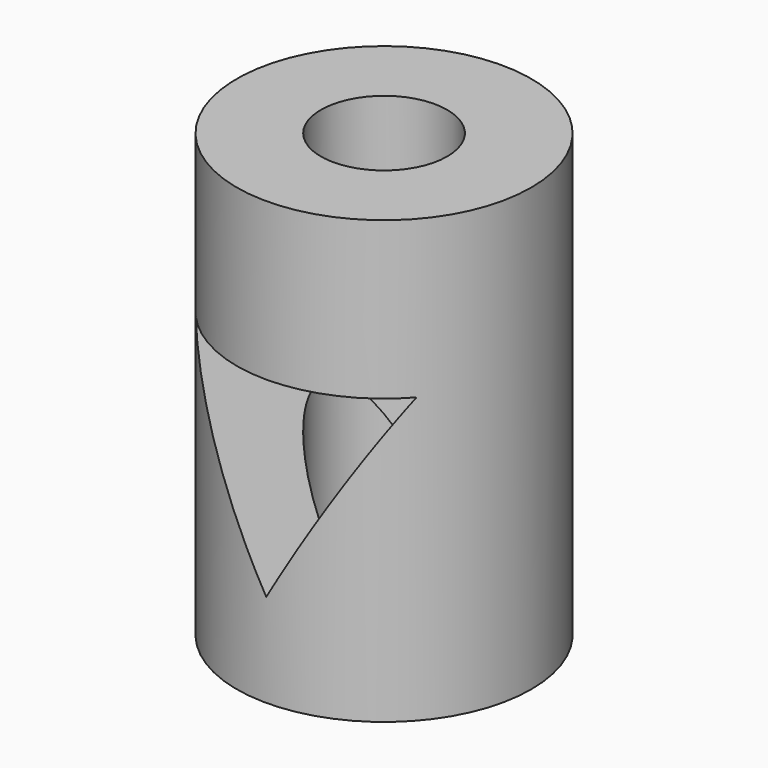
from build123d import *

# Parameters (mm, degrees)
F0_R     = 50
F1_DEPTH = 150
F2_R     = 21.443612
F3_DEPTH = 150.001
F5_DEPTH = 50.001
F6_DEPTH = 50.001


with BuildPart() as f1:
    # F0 (on Top) → F1 (new body)
    with BuildSketch(Plane.XY):
        Circle(F0_R)
    extrude(amount=F1_DEPTH)

    # F2 (on Top) → F3 (cut, through all)
    with BuildSketch(Plane.XY):
        Circle(F2_R)
    extrude(amount=F3_DEPTH, mode=Mode.SUBTRACT)

    # F4 (on Front) → F5 (cut, through all)
    with BuildSketch(Plane.XZ):
        Polygon((0, 96.650635), (0, 31.69873), (37.5, 96.650635), align=None)
        Polygon((-37.5, 96.650635), (0, 31.69873), (0, 96.650635), align=None)
    extrude(amount=F5_DEPTH, mode=Mode.SUBTRACT)

    # F4 (on Front) → F6 (cut, through all)
    with BuildSketch(Plane.XZ):
        Polygon((0, 96.650635), (0, 31.69873), (37.5, 96.650635), align=None)
        Polygon((-37.5, 96.650635), (0, 31.69873), (0, 96.650635), align=None)
    extrude(amount=-F6_DEPTH, mode=Mode.SUBTRACT)


solid = f1.part
